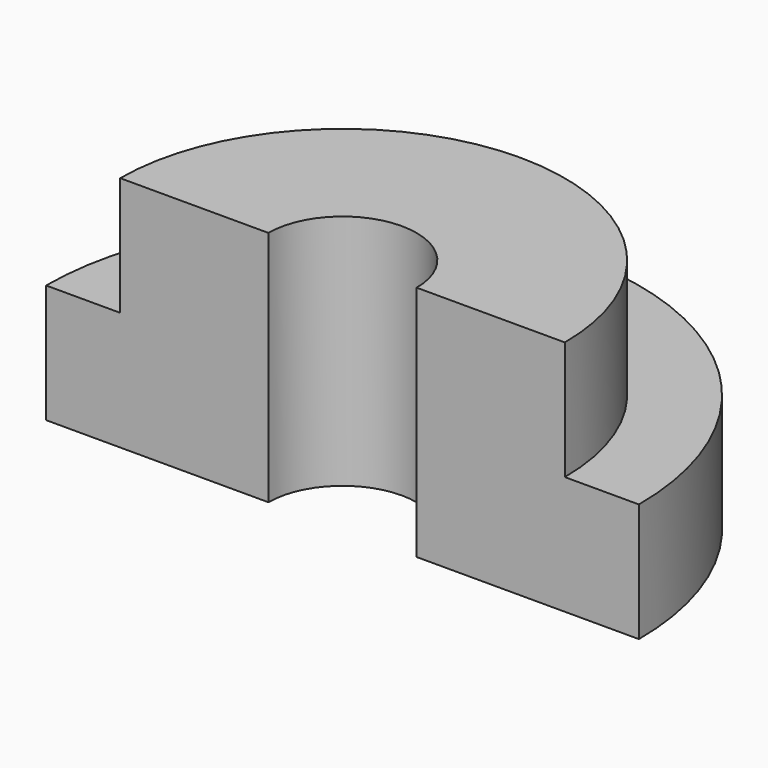
from build123d import *

# Parameters (mm, degrees)
F2_DEPTH = 8
F3_DEPTH = 4
F4_DEPTH = 25


with BuildPart() as f2:
    # F0 (on Top) → F2 (new body)
    with BuildSketch(Plane.XY):
        with BuildLine():
            ThreePointArc((7.5, 0), (0, 7.5), (-7.5, 0))
            Line((-7.5, 0), (-2.5, 0))
            ThreePointArc((-2.5, 0), (0, 2.5), (2.5, 0))
            Line((2.5, 0), (7.5, 0))
        make_face()
    extrude(amount=F2_DEPTH)

    # F0 (on Top) → F3 (join)
    with BuildSketch(Plane.XY):
        with BuildLine():
            ThreePointArc((10, 0), (0, 10), (-10, 0))
            Line((-10, 0), (-7.5, 0))
            ThreePointArc((-7.5, 0), (0, 7.5), (7.5, 0))
            Line((7.5, 0), (10, 0))
        make_face()
        with BuildLine():
            ThreePointArc((7.5, 0), (0, 7.5), (-7.5, 0))
            Line((-7.5, 0), (-2.5, 0))
            ThreePointArc((-2.5, 0), (0, 2.5), (2.5, 0))
            Line((2.5, 0), (7.5, 0))
        make_face()
        with BuildLine():
            ThreePointArc((2.5, 0), (0, 2.5), (-2.5, 0))
            Line((-2.5, 0), (2.5, 0))
        make_face()
    extrude(amount=F3_DEPTH)

    # F4 (cut): a face of the model
    f4_faces = [f2.faces().sort_by_distance(p)[0] for p in [
        (0, 1.0610329539, 4),
    ]]
    extrude(f4_faces, amount=-F4_DEPTH, mode=Mode.SUBTRACT)


solid = f2.part
